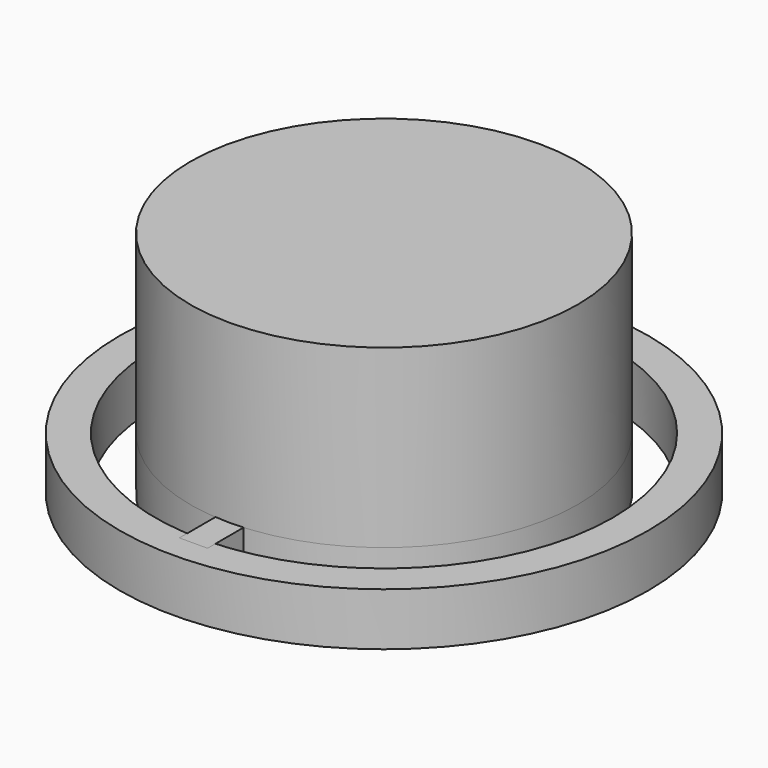
from build123d import *

# Parameters (mm, degrees)
F0_R     = 75
F1_DEPTH = 15
F2_R     = 65
F3_DEPTH = 21.3
F4_R     = 55
F5_DEPTH = 15
F6_W     = 8
F6_H     = 135.2500021458
F7_DEPTH = 15
F8_DEPTH = 50


with BuildPart() as f1:
    # F0 (on Top) → F1 (new body)
    with BuildSketch(Plane.XY):
        Circle(F0_R)
    extrude(amount=F1_DEPTH)

    # F2 (on face) → F3 (cut)
    with BuildSketch(Plane.XY.offset(15)):
        Circle(F2_R)
    extrude(amount=-F3_DEPTH, mode=Mode.SUBTRACT)


with BuildPart() as f5:
    # F4 (on Top) → F5 (new body)
    with BuildSketch(Plane.XY):
        Circle(F4_R)
    extrude(amount=F5_DEPTH)


with BuildPart() as f7:
    # F6 (on Top) → F7 (new body)
    with BuildSketch(Plane.XY):
        Rectangle(F6_W, F6_H)
    extrude(amount=F7_DEPTH)


with BuildPart() as f8:
    # F8 (new): a face of the model
    f8_faces = [f5.part.faces().sort_by_distance(p)[0] for p in [
        (0, 0, 15),
    ]]
    extrude(f8_faces, amount=F8_DEPTH)


solid = Compound([f1.part, f5.part, f7.part, f8.part])
